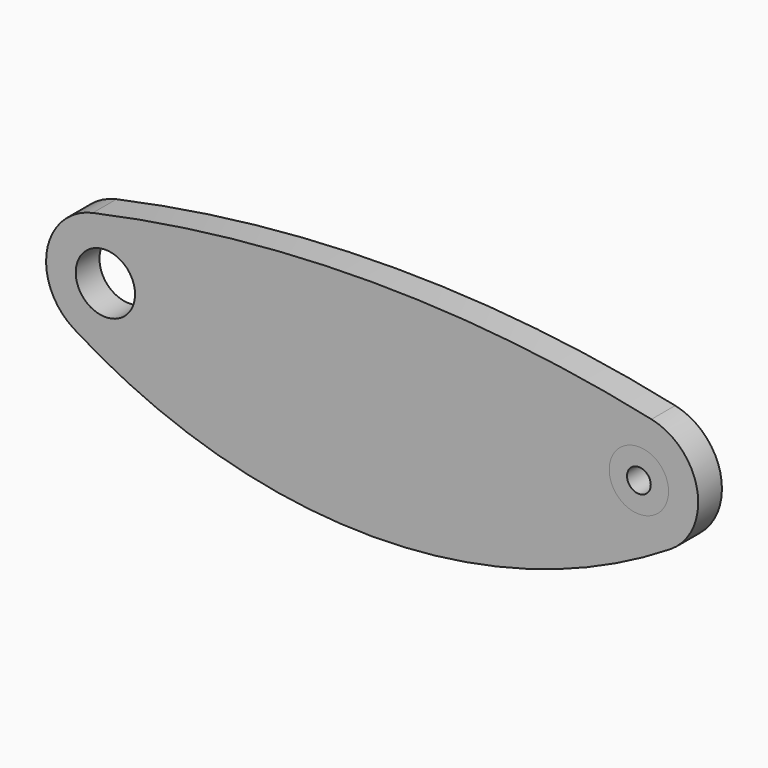
from build123d import *

# Parameters (mm, degrees)
F0_R     = 5
F0_R_2   = 2
F1_DEPTH = 5
F2_DEPTH = 5


with BuildPart() as f1:
    # F0 (on Front) → F1 (new body)
    with BuildSketch(Plane.XZ):
        with Locations((44.9785, 0)):
            Circle(F0_R)
        with Locations((44.9785, 0)):
            Circle(F0_R_2, mode=Mode.SUBTRACT)
    extrude(amount=F1_DEPTH)


with BuildPart() as f2:
    # F0 (on Front) → F2 (new body)
    with BuildSketch(Plane.XZ):
        with BuildLine():
            ThreePointArc((-47.100518, 9.772259), (-54.829105, 1.722087), (-50.290112, -8.472708))
            ThreePointArc((-50.290112, -8.472708), (0, -22.933043), (50.290112, -8.472708))
            ThreePointArc((50.290112, -8.472708), (54.829105, 1.722087), (47.100518, 9.772259))
            ThreePointArc((47.100518, 9.772259), (0, 14.827227), (-47.100518, 9.772259))
        make_face()
        with Locations((-44.9785, 0)):
            Circle(F0_R, mode=Mode.SUBTRACT)
        with Locations((44.9785, 0)):
            Circle(F0_R, mode=Mode.SUBTRACT)
    extrude(amount=F2_DEPTH)


solid = Compound([f1.part, f2.part])
